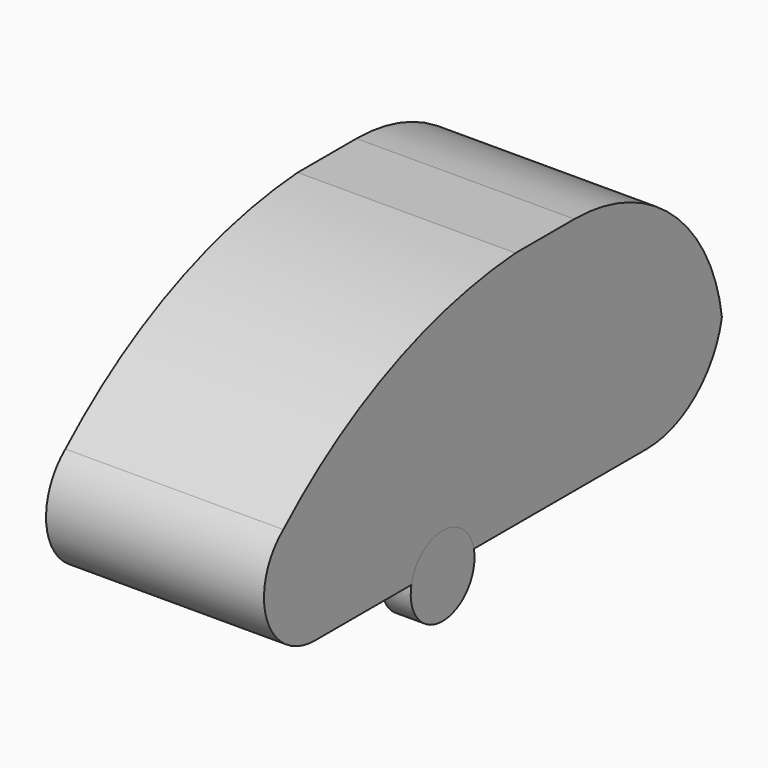
from build123d import *

# Parameters (mm, degrees)
F1_DEPTH = 2082.8
F2_DEPTH = 279.4


with BuildPart() as f1:
    # F0 (on Right) → F1 (new body)
    with BuildSketch(Plane.YZ):
        with BuildLine():
            ThreePointArc((5470.549464, 1202.082389), (4878.892869, 2303.568575), (3708.4, 2743.2))
            Line((3708.4, 2743.2), (3005.318663, 2743.2))
            ThreePointArc((3005.318663, 2743.2), (1516.351794, 2379.784171), (231.154358, 1544.702768))
            ThreePointArc((231.154358, 1544.702768), (33.864954, 866.447021), (609.6, 457.2))
            Line((609.6, 457.2), (1760.297763, 457.2))
            ThreePointArc((1760.297763, 457.2), (2133.6, 762), (2506.902237, 457.2))
            Line((2506.902237, 457.2), (4572, 457.2))
            ThreePointArc((4572, 457.2), (5155.575383, 667.634708), (5470.549464, 1202.082389))
        make_face()
    extrude(amount=-F1_DEPTH)


with BuildPart() as f2:
    # F0 (on Right) → F2 (new body)
    with BuildSketch(Plane.YZ):
        with BuildLine():
            Line((1760.297763, 457.2), (2506.902237, 457.2))
            ThreePointArc((2506.902237, 457.2), (2133.6, 762), (1760.297763, 457.2))
        make_face()
        with BuildLine():
            ThreePointArc((2514.6, 381), (2512.670674, 419.293915), (2506.902237, 457.2))
            Line((2506.902237, 457.2), (1760.297763, 457.2))
            ThreePointArc((1760.297763, 457.2), (2095.306085, 1.929326), (2514.6, 381))
        make_face()
    extrude(amount=-F2_DEPTH)


solid = Compound([f1.part, f2.part])
